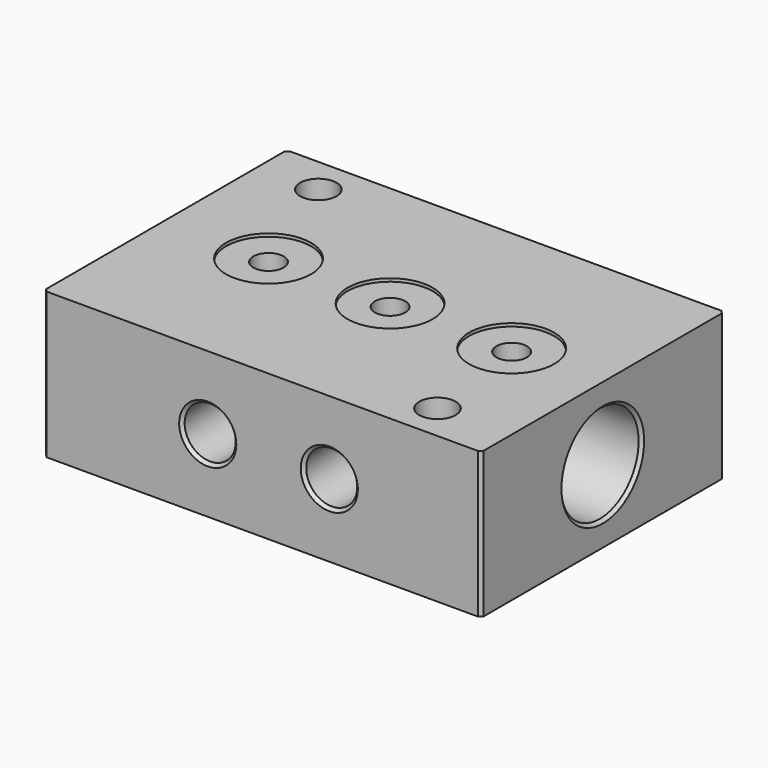
from build123d import *

# Parameters (mm, degrees)
F0_W      = 35
F0_H      = 25
F1_DEPTH  = 12
F2_R      = 4
F3_DEPTH  = 35
F4_R      = 3.5
F4_R_2    = 1.25
F5_DEPTH  = 0.25
F4_R_3    = 1.5
F6_DEPTH  = 25
F7_R      = 1.25
F8_DEPTH  = 25
F10_R     = 2.1
F10_R_2   = 1.25
F11_DEPTH = 6
F9_R      = 2.1
F9_R_2    = 1.25
F12_DEPTH = 6
F13_DEPTH = 1
F14_SIZE  = 0.25
F15_SIZE  = 0.25


with BuildPart() as f1:
    # F0 (on Top) → F1 (new body)
    with BuildSketch(Plane.XY):
        with Locations((17.5, -12.5)):
            Rectangle(F0_W, F0_H)
    extrude(amount=F1_DEPTH)

    # F2 (on face) → F3 (cut, through all)
    with BuildSketch(Plane(origin=(0, 0, 0), x_dir=(0, -1, 0), z_dir=(-1, 0, 0))):
        with Locations((12.5, 6)):
            Circle(F2_R)
    extrude(amount=-F3_DEPTH, mode=Mode.SUBTRACT)

    # F4 (on face) → F6 (cut)
    with BuildSketch(Plane.XY.offset(12)):
        with Locations((30, -22)):
            Circle(F4_R_3)
        with Locations((28.5, -12.5)):
            Circle(F4_R_2)
        with Locations((18.5, -12.5)):
            Circle(F4_R_2)
        with Locations((5, -3)):
            Circle(F4_R_3)
        with Locations((8.5, -12.5)):
            Circle(F4_R_2)
    extrude(amount=-F6_DEPTH, mode=Mode.SUBTRACT)

    # F7 (on face) → F8 (cut)
    with BuildSketch(Plane(origin=(0, 0, 0), x_dir=(-1, 0, 0), z_dir=(0, 1, 0))):
        with Locations((-23.5, 6)):
            Circle(F7_R)
        with Locations((-13.5, 6)):
            Circle(F7_R)
    extrude(amount=-F8_DEPTH, mode=Mode.SUBTRACT)

    # F10 (on face) → F11 (cut)
    with BuildSketch(Plane(origin=(0, 0, 0), x_dir=(-1, 0, 0), z_dir=(0, 1, 0))):
        with Locations((-13.5, 6)):
            Circle(F10_R)
        with Locations((-13.5, 6)):
            Circle(F10_R_2, mode=Mode.SUBTRACT)
        with Locations((-23.5, 6)):
            Circle(F10_R)
        with Locations((-23.5, 6)):
            Circle(F10_R_2, mode=Mode.SUBTRACT)
    extrude(amount=-F11_DEPTH, mode=Mode.SUBTRACT)

    # F9 (on face) → F12 (cut)
    with BuildSketch(Plane.XZ.offset(25)):
        with Locations((13.5, 6)):
            Circle(F9_R)
        with Locations((13.5, 6)):
            Circle(F9_R_2, mode=Mode.SUBTRACT)
        with Locations((23.5, 6)):
            Circle(F9_R)
        with Locations((23.5, 6)):
            Circle(F9_R_2, mode=Mode.SUBTRACT)
    extrude(amount=-F12_DEPTH, mode=Mode.SUBTRACT)

    # F13 (add): a face of the model
    f13_faces = [f1.faces().sort_by_distance(p)[0] for p in [
        (35, -24.7226915075, 6),
    ]]
    extrude(f13_faces, amount=F13_DEPTH)

    # F14
    f14_edges = [f1.edges().sort_by_distance(p)[0] for p in [
        (11.4, -25, 6),
        (21.4, -25, 6),
        (15.6, 0, 6),
        (25.6, 0, 6),
        (36, -8.5, 6),
        (0, -8.5, 6),
    ]]
    chamfer(f14_edges, length=F14_SIZE)

    # F15
    f15_edges = [f1.edges().sort_by_distance(p)[0] for p in [
        (36, -25, 6),
        (36, 0, 6),
        (0, 0, 6),
        (0, -25, 6),
    ]]
    chamfer(f15_edges, length=F15_SIZE)


with BuildPart() as f5:
    # F4 (on face) → F5 (new body)
    with BuildSketch(Plane.XY.offset(12)):
        with Locations((8.5, -12.5)):
            Circle(F4_R)
        with Locations((8.5, -12.5)):
            Circle(F4_R_2, mode=Mode.SUBTRACT)
    extrude(amount=-F5_DEPTH)


with BuildPart() as f5b:
    # F4 (on face) → F5, piece 2 (new body)
    with BuildSketch(Plane.XY.offset(12)):
        with Locations((18.5, -12.5)):
            Circle(F4_R)
        with Locations((18.5, -12.5)):
            Circle(F4_R_2, mode=Mode.SUBTRACT)
    extrude(amount=-F5_DEPTH)


with BuildPart() as f5c:
    # F4 (on face) → F5, piece 3 (new body)
    with BuildSketch(Plane.XY.offset(12)):
        with Locations((28.5, -12.5)):
            Circle(F4_R)
        with Locations((28.5, -12.5)):
            Circle(F4_R_2, mode=Mode.SUBTRACT)
    extrude(amount=-F5_DEPTH)


with BuildPart() as f16_1:
    # F16: instance of F5
    add(f5.part.mirror(Plane.XY))


with BuildPart() as f16_2:
    # F16: instance of F5b
    add(f5b.part.mirror(Plane.XY))


with BuildPart() as f16_3:
    # F16: instance of F5c
    add(f5c.part.mirror(Plane.XY))


with BuildPart() as f16_3_1:
    # F17: moved
    add(f16_3.part.moved(Location((0, 0, 12))))


with BuildPart() as f16_2_1:
    # F17: moved
    add(f16_2.part.moved(Location((0, 0, 12))))


with BuildPart() as f16_1_1:
    # F17: moved
    add(f16_1.part.moved(Location((0, 0, 12))))


with BuildPart() as f1_1:
    add(f1.part)

    # F18: cut F5c, F5, F5b, F16_1, F16_2, F16_3
    add(f5c.part, mode=Mode.SUBTRACT)
    add(f5.part, mode=Mode.SUBTRACT)
    add(f5b.part, mode=Mode.SUBTRACT)
    add(f16_1_1.part, mode=Mode.SUBTRACT)
    add(f16_2_1.part, mode=Mode.SUBTRACT)
    add(f16_3_1.part, mode=Mode.SUBTRACT)


solid = f1_1.part
